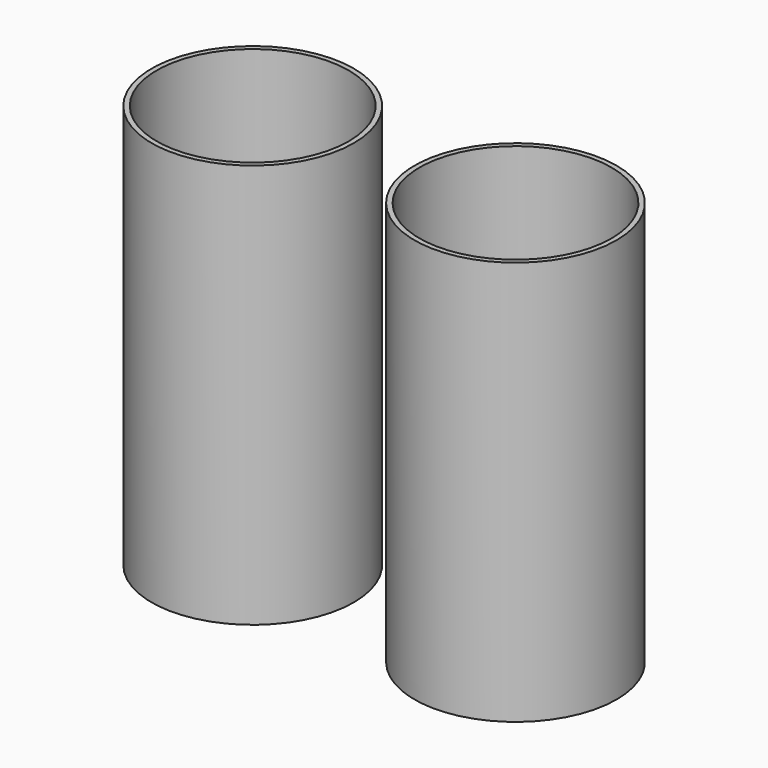
from build123d import *

# Parameters (mm, degrees)
F0_R     = 50
F0_R_2   = 47.5
F1_DEPTH = 200


with BuildPart() as f1:
    # F0 (on Top) → F1 (new body)
    with BuildSketch(Plane.XY):
        Circle(F0_R)
        Circle(F0_R_2, mode=Mode.SUBTRACT)
        with Locations((130, 0)):
            Circle(F0_R)
        with Locations((130, 0)):
            Circle(F0_R_2, mode=Mode.SUBTRACT)
    extrude(amount=F1_DEPTH)


solid = f1.part
